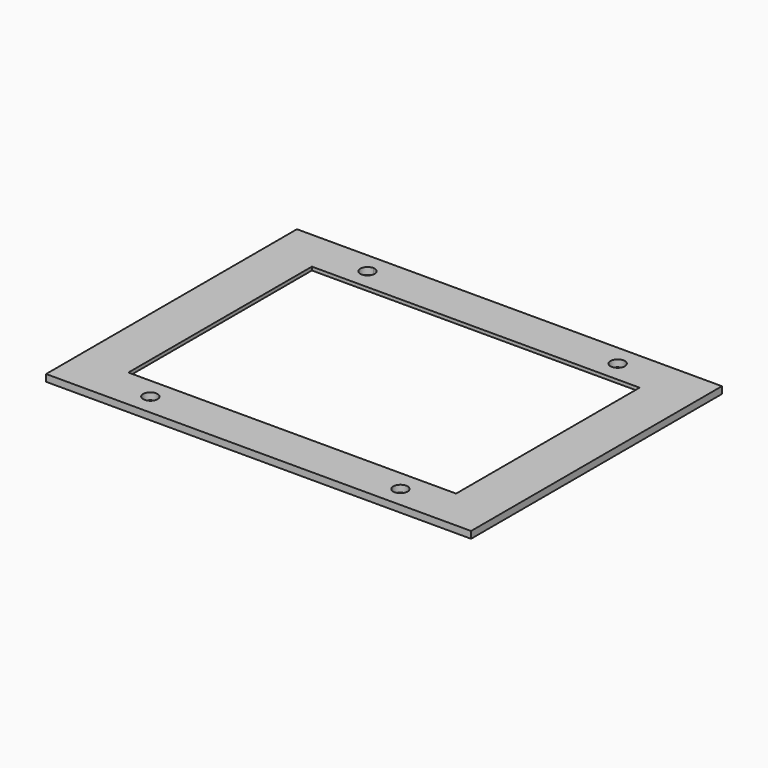
from build123d import *

# Parameters (mm, degrees)
F0_R     = 2.0828
F1_DEPTH = 2
F2_W     = 105
F2_H     = 73
F3_DEPTH = 1


with BuildPart() as f1:
    # F0 (on Top) → F1 (new body)
    with BuildSketch(Plane.XY):
        Polygon((-61.72, -45.54), (61.72, -45.54), (61.72, 45.54), (-36.32, 45.54), (-61.72, 45.54), align=None)
        with Locations((-36.32, -39.4275)):
            Circle(F0_R, mode=Mode.SUBTRACT)
        with Locations((36.32, -39.4275)):
            Circle(F0_R, mode=Mode.SUBTRACT)
        Polygon((-47.595, 33.315), (-36.32, 33.315), (47.595, 33.315), (47.595, -33.315), (-47.595, -33.315), align=None, mode=Mode.SUBTRACT)
        with BuildLine():
            ThreePointArc((-36.32, 37.3447), (-38.4028, 39.4275), (-36.32, 41.5103))
            ThreePointArc((-36.32, 41.5103), (-34.847238, 40.900262), (-34.2372, 39.4275))
            ThreePointArc((-34.2372, 39.4275), (-34.847238, 37.954738), (-36.32, 37.3447))
        make_face(mode=Mode.SUBTRACT)
        with Locations((36.32, 39.4275)):
            Circle(F0_R, mode=Mode.SUBTRACT)
    extrude(amount=F1_DEPTH)

    # F2 (on Top) → F3 (cut)
    with BuildSketch(Plane.XY):
        Rectangle(F2_W, F2_H)
    extrude(amount=F3_DEPTH, mode=Mode.SUBTRACT)


solid = f1.part
